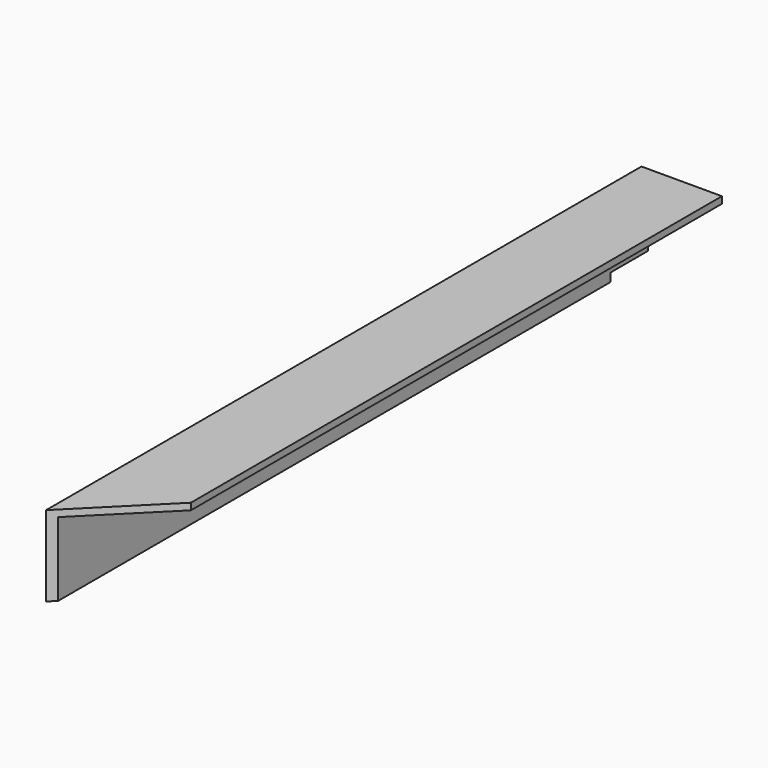
from build123d import *

# Parameters (mm, degrees)
F1_DEPTH = 352.425
F2_W     = 22.225
F2_H     = 3.96875
F3_DEPTH = 25.4
F5_DEPTH = 38.1
F7_W     = 38.1
F7_H     = 38.1
F8_DEPTH = 352.426


with BuildPart() as f1:
    # F0 (on Front) → F1 (new body)
    with BuildSketch(Plane.XZ):
        Polygon((-18.553972, 20.450408), (-21.728972, 20.450408), (-21.728972, -17.649592), (16.371028, -17.649592), (16.371028, -14.474592), (-18.553972, -14.474592), align=None)
    extrude(amount=F1_DEPTH)

    # F2 (on face) → F3 (cut)
    with BuildSketch(Plane.YZ.offset(-18.553972)):
        with Locations((-11.1125, 18.466033)):
            Rectangle(F2_W, F2_H)
    extrude(amount=-F3_DEPTH, mode=Mode.SUBTRACT)

    # F4 (on face) → F5 (cut)
    with BuildSketch(Plane(origin=(0, 0, -17.649592), x_dir=(1, 0, 0), z_dir=(0, 0, -1))):
        Polygon((16.371028, 352.425), (-21.728972, 352.425), (16.371028, 314.325), align=None)
    extrude(amount=-F5_DEPTH, mode=Mode.SUBTRACT)

    # F6: F1 across face


with BuildPart() as f1_1:
    add(f1.part)
    add(f1.part.mirror(Plane(origin=(-3.041829, -166.868929, -17.649592), x_dir=(1, 0, 0), z_dir=(0, 0, -1))))

    # F7 (on face) → F8 (cut, through all)
    with BuildSketch(Plane(origin=(0, 0, 0), x_dir=(-1, 0, 0), z_dir=(0, 1, 0))):
        with Locations((2.678972, 1.400408)):
            Rectangle(F7_W, F7_H)
    extrude(amount=-F8_DEPTH, mode=Mode.SUBTRACT)


solid = f1_1.part
